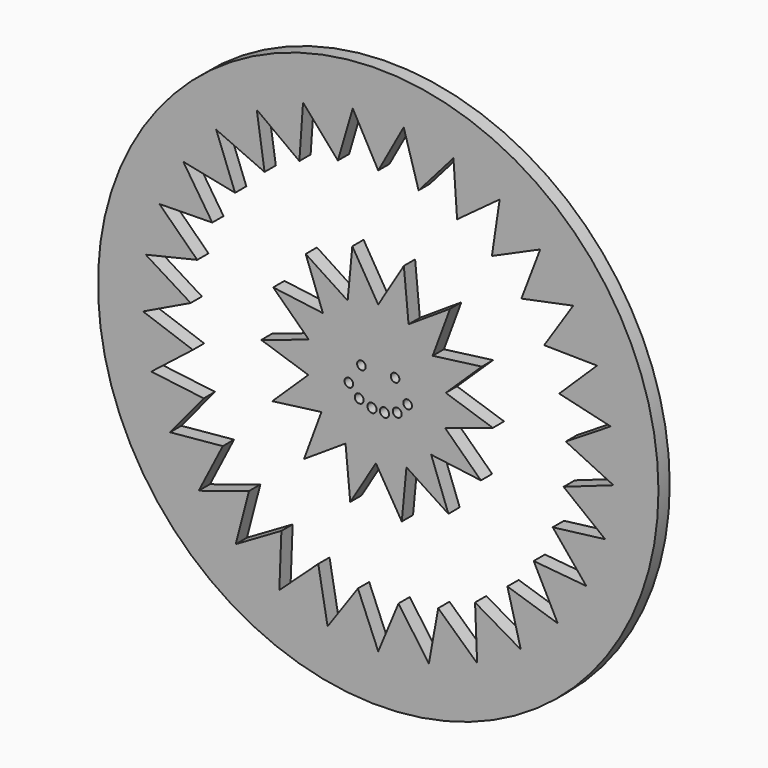
from build123d import *

# Parameters (mm, degrees)
F0_R     = 59.69
F0_R_2   = 0.973209
F0_R_3   = 0.946708
F0_R_4   = 0.923894
F0_R_5   = 0.912695
F1_DEPTH = 3


with BuildPart() as f1:
    # F0 (on Front) → F1 (new body)
    with BuildSketch(Plane.XZ):
        Circle(F0_R)
        Polygon((-5.424229, 50.509581), (0, 40.640013), (5.424229, 50.509581), (8.599977, 39.704709), (16.019056, 48.177483), (16.797829, 36.942531), (25.86485, 43.622334), (24.210233, 32.482636), (34.501232, 37.057127), (30.490593, 26.533562), (41.524375, 28.788844), (35.345247, 19.373483), (46.605884, 19.204101), (38.547197, 11.337196), (49.508154, 8.751069), (39.946722, 2.800468), (50.095477, -2.081479), (39.478383, -5.837533), (48.340392, -12.787025), (37.164079, -14.172903), (44.324964, -22.864989), (33.112024, -21.81589), (38.23695, -31.844139), (27.511687, -28.409116), (30.361018, -39.304617), (20.624935, -33.644289), (21.065439, -44.897582), (12.773783, -37.276619), (10.784864, -48.361511), (4.325344, -39.136261), (0, -49.534435), (-4.325344, -39.136261), (-10.784864, -48.361511), (-12.773783, -37.276619), (-21.065439, -44.897582), (-20.624935, -33.644289), (-30.361018, -39.304617), (-27.511687, -28.409116), (-38.23695, -31.844139), (-33.112024, -21.81589), (-44.324964, -22.864989), (-37.164079, -14.172903), (-48.340392, -12.787025), (-39.478383, -5.837533), (-50.095477, -2.081479), (-39.946722, 2.800468), (-49.508154, 8.751069), (-38.547197, 11.337196), (-46.605884, 19.204101), (-35.345247, 19.373483), (-41.524375, 28.788844), (-30.490593, 26.533562), (-34.501232, 37.057127), (-24.210233, 32.482636), (-25.86485, 43.622334), (-16.797829, 36.942531), (-16.019056, 48.177483), (-8.599977, 39.704709), align=None, mode=Mode.SUBTRACT)
        Polygon((5.457441, 24.533876), (0, 15.494), (-5.518424, 24.634891), (-6.513153, 14.122349), (-15.451165, 19.963654), (-11.786164, 10.060584), (-22.373481, 11.445359), (-14.774648, 4.113186), (-24.914323, 0.76716), (-14.886701, -2.541889), (-22.570446, -9.955994), (-12.100128, -8.586523), (-15.806083, -18.600253), (-6.966844, -12.8235), (-5.961, -23.453513), (-0.503559, -14.413637), (5.014865, -23.554528), (6.009594, -13.041986), (14.947606, -18.883291), (11.282604, -8.980221), (21.869922, -10.364996), (14.271089, -3.032823), (24.410764, 0.313203), (14.383142, 3.622252), (22.066887, 11.036358), (11.596568, 9.666886), (15.302524, 19.680616), (6.463285, 13.903863), align=None)
        with Locations((-1.329379, -4.309488)):
            Circle(F0_R_2, mode=Mode.SUBTRACT)
        with Locations((-4.053914, -3.439955)):
            Circle(F0_R_3, mode=Mode.SUBTRACT)
        with Locations((-6.25673, -1.179171)):
            Circle(F0_R_4, mode=Mode.SUBTRACT)
        with Locations((1.329379, -4.309488)):
            Circle(F0_R_2, mode=Mode.SUBTRACT)
        with Locations((4.053914, -3.439955)):
            Circle(F0_R_3, mode=Mode.SUBTRACT)
        with Locations((6.25673, -1.179171)):
            Circle(F0_R_4, mode=Mode.SUBTRACT)
        with Locations((-3.590164, 2.936617)):
            Circle(F0_R_5, mode=Mode.SUBTRACT)
        with Locations((3.590164, 2.936617)):
            Circle(F0_R_5, mode=Mode.SUBTRACT)
    extrude(amount=F1_DEPTH)


solid = f1.part
